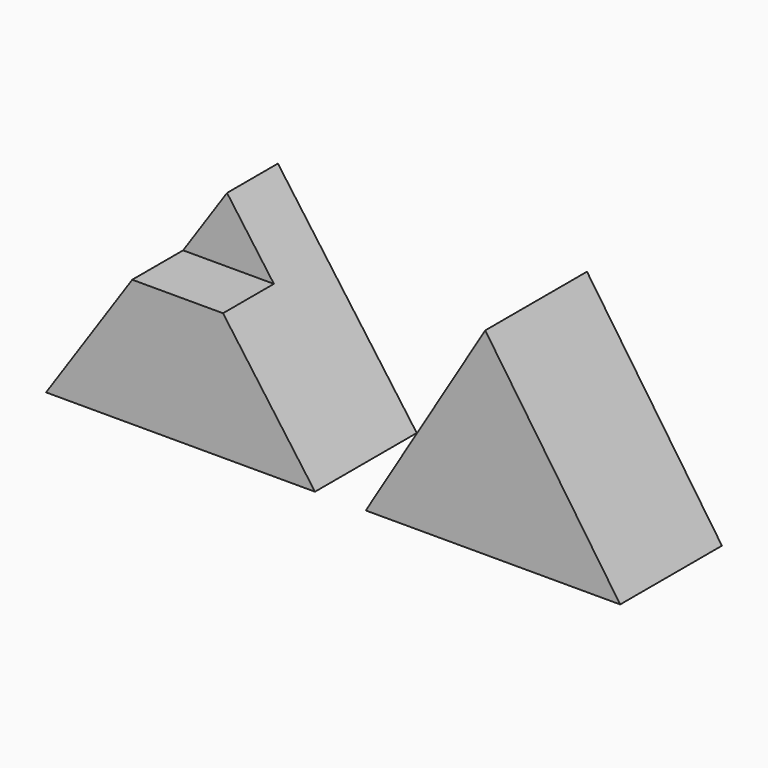
from build123d import *

# Parameters (mm, degrees)
F1_DEPTH = 50.8
F3_DEPTH = 25.4
F5_DEPTH = 50.8


with BuildPart() as f1:
    # F0 (on Front) → F1 (new body)
    with BuildSketch(Plane.XZ):
        Polygon((51.9446469843, 76.7036750913), (0, 0), (107.4013710022, 0), align=None)
    extrude(amount=F1_DEPTH)

    # F2 (on face) → F3 (cut)
    with BuildSketch(Plane.XZ.offset(50.8)):
        Polygon((51.9446469843, 76.7036750913), (34.4084353838, 50.8089591767), (70.6665154253, 50.8089591767), align=None)
    extrude(amount=-F3_DEPTH, mode=Mode.SUBTRACT)


with BuildPart() as f5:
    # F4 (on Front) → F5 (new body)
    with BuildSketch(Plane.XZ):
        Polygon((175.3951609135, 78.8389742374), (127.6893019676, 0), (229.2893019676, 0), align=None)
    extrude(amount=F5_DEPTH)


solid = Compound([f1.part, f5.part])
